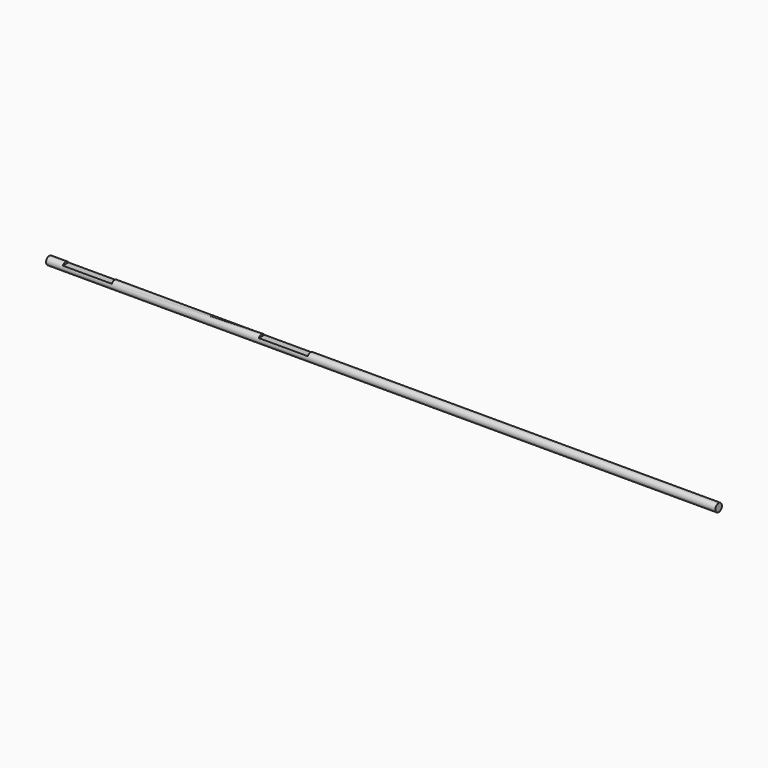
from build123d import *

# Parameters (mm, degrees)
F0_R     = 3.175
F1_DEPTH = 260.35
F2_W     = 38.1
F2_H     = 5.08
F3_DEPTH = 12.7
F4_W     = 38.1
F4_H     = 5.08
F5_DEPTH = 12.7


with BuildPart() as f1:
    # F0 (on Right) → F1 (new body, symmetric)
    with BuildSketch(Plane.YZ):
        Circle(F0_R)
    extrude(amount=F1_DEPTH, both=True)

    # F2 (on Front) → F3 (cut, symmetric)
    with BuildSketch(Plane.XZ):
        with Locations((-228.6, 4.1275)):
            Rectangle(F2_W, F2_H)
    extrude(amount=F3_DEPTH, both=True, mode=Mode.SUBTRACT)

    # F4 (on Front) → F5 (cut, symmetric)
    with BuildSketch(Plane.XZ):
        with Locations((-76.2, 4.1275)):
            Rectangle(F4_W, F4_H)
    extrude(amount=F5_DEPTH, both=True, mode=Mode.SUBTRACT)


solid = f1.part
